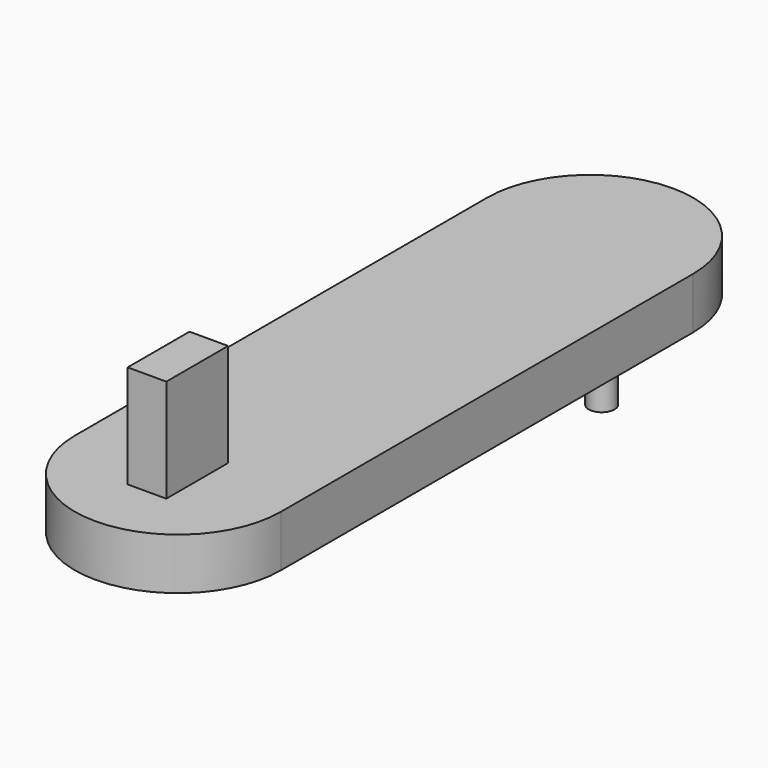
from build123d import *

# Parameters (mm, degrees)
F1_DEPTH = 50.8
F2_R     = 12.7
F3_DEPTH = 101.6
F4_W     = 38.1
F4_H     = 76.2
F5_DEPTH = 101.6


with BuildPart() as f1:
    # F0 (on Top) → F1 (new body)
    with BuildSketch(Plane.XY):
        with BuildLine():
            Line((-101.6, 508), (-101.6, 0))
            ThreePointArc((-101.6, 0), (0, -101.6), (101.6, 0))
            Line((101.6, 0), (101.6, 508))
            ThreePointArc((101.6, 508), (0, 609.6), (-101.6, 508))
        make_face()
    extrude(amount=-F1_DEPTH)

    # F2 (on face) → F3 (join)
    with BuildSketch(Plane(origin=(0, 0, -50.8), x_dir=(1, 0, 0), z_dir=(0, 0, -1))):
        with Locations((0, -522.219658)):
            Circle(F2_R)
    extrude(amount=F3_DEPTH)

    # F4 (on face) → F5 (join)
    with BuildSketch(Plane.XY):
        Rectangle(F4_W, F4_H)
    extrude(amount=F5_DEPTH)


solid = f1.part
